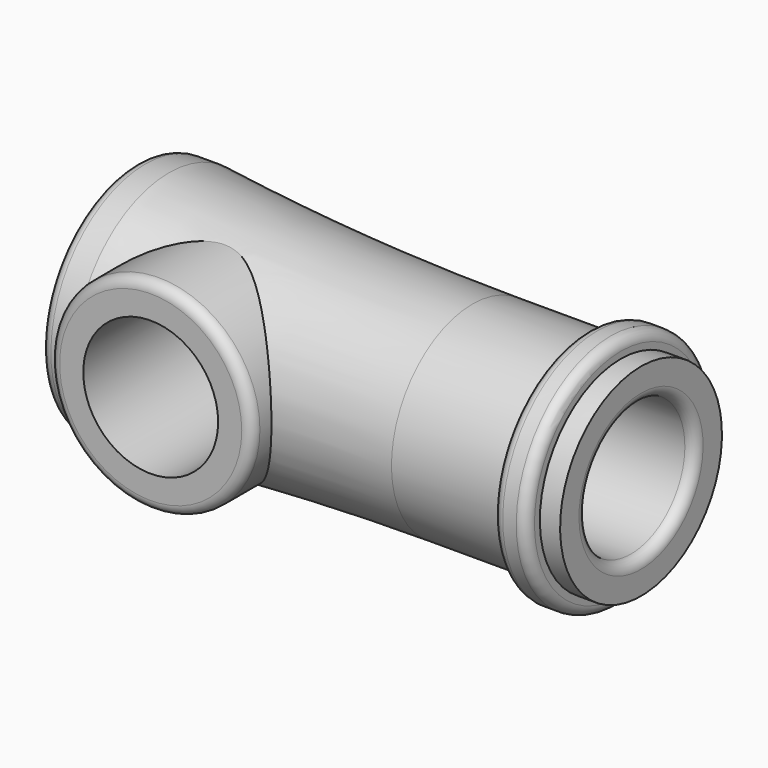
from build123d import *

# Parameters (mm, degrees)
F2_R     = 15
F3_DEPTH = 19
F4_R     = 10
F5_DEPTH = 25
F6_R     = 1.5
F7_R     = 1.5


with BuildPart() as f1:
    # F0 (on Front) → F1 (revolve)
    with BuildSketch(Plane.XZ):
        with BuildLine():
            Line((0, 17.5), (0, 0))
            Line((0, 0), (60, 0))
            Line((60, 0), (60, 10))
            Line((60, 10), (75, 10))
            Line((75, 10), (75, 15))
            Line((75, 15), (72, 15))
            Line((72, 15), (72, 17.5))
            Line((72, 17.5), (67, 17.5))
            Line((67, 17.5), (67, 15))
            Line((67, 15), (50, 15))
            ThreePointArc((50, 15), (27.465305, 15.625482), (5, 17.5))
            Line((5, 17.5), (0, 17.5))
        make_face()
    revolve(axis=Axis((30, 0, 0), (1, 0, 0)))

    # F2 (on Front) → F3 (join)
    with BuildSketch(Plane.XZ):
        with Locations((17.5, 0)):
            Circle(F2_R)
    extrude(amount=F3_DEPTH)

    # F4 (on face) → F5 (cut)
    with BuildSketch(Plane.XZ.offset(19)):
        with Locations((17.5, 0)):
            Circle(F4_R)
    extrude(amount=-F5_DEPTH, mode=Mode.SUBTRACT)

    # F6
    f6_edges = [f1.edges().sort_by_distance(p)[0] for p in [
        (0, 0, -17.5),
        (2.5, -19, 0),
    ]]
    fillet(f6_edges, radius=F6_R)

    # F7
    f7_edges = [f1.edges().sort_by_distance(p)[0] for p in [
        (67, 0, -17.5),
        (72, 0, -17.5),
        (75, 0, -10),
    ]]
    fillet(f7_edges, radius=F7_R)


solid = f1.part
